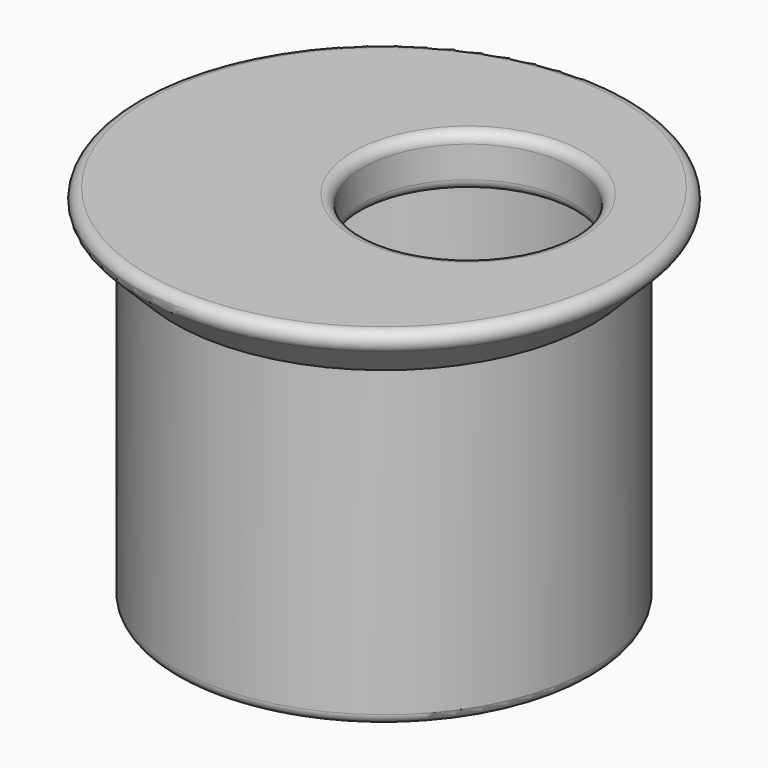
from build123d import *

# Parameters (mm, degrees)
F2_R     = 50.8
F3_DEPTH = 31.496
F4_W     = 101.6
F4_H     = 152.4
F6_T     = -2.54
F7_R     = 5.08
F7_2_R   = 5.08
F8_R     = 5.08


with BuildPart() as f1:
    # F0 (on Front) → F1 (revolve)
    with BuildSketch(Plane.XZ):
        Polygon((0, 57.8452544079), (-127, 57.8452544079), (-101.6, 32.4452544079), (0, 32.4452544079), align=None)
    revolve(axis=Axis((0, 0, 45.1452544079), (0, 0, -1)))

    # F2 (on face) → F3 (cut)
    with BuildSketch(Plane.XY.offset(57.8452544079)):
        with Locations((28.4512005746, 15.5193470418)):
            Circle(F2_R)
    extrude(amount=-F3_DEPTH, mode=Mode.SUBTRACT)

    # F7
    f7_edges = [f1.edges().sort_by_distance(p)[0] for p in [
        (127, 0, 57.845254),
        (-22.348799, 15.519347, 57.845254),
    ]]
    fillet(f7_edges, radius=F7_R)

    # F8
    f8_edges = [f1.edges().sort_by_distance(p)[0] for p in [
        (79.251201, 15.519347, 42.605254),
        (-22.348799, 15.519347, 52.765254),
        (-22.348799, 15.519347, 32.445254),
    ]]
    fillet(f8_edges, radius=F8_R)


with BuildPart() as f5:
    # F4 (on Front) → F5 (revolve)
    with BuildSketch(Plane.XZ):
        with Locations((-50.8, -43.7547455921)):
            Rectangle(F4_W, F4_H)
    revolve(axis=Axis((0, 0, -43.7547455921), (0, 0, 1)))

    # F6
    f6_openings = [f5.faces().sort_by_distance(p)[0] for p in [
        (0, 0, 32.445254),
    ]]
    offset(amount=F6_T, openings=f6_openings)

    # F7#2
    f7_2_edges = [f5.edges().sort_by_distance(p)[0] for p in [
        (101.6, 0, -119.954746),
    ]]
    fillet(f7_2_edges, radius=F7_2_R)


solid = Compound([f1.part, f5.part])
